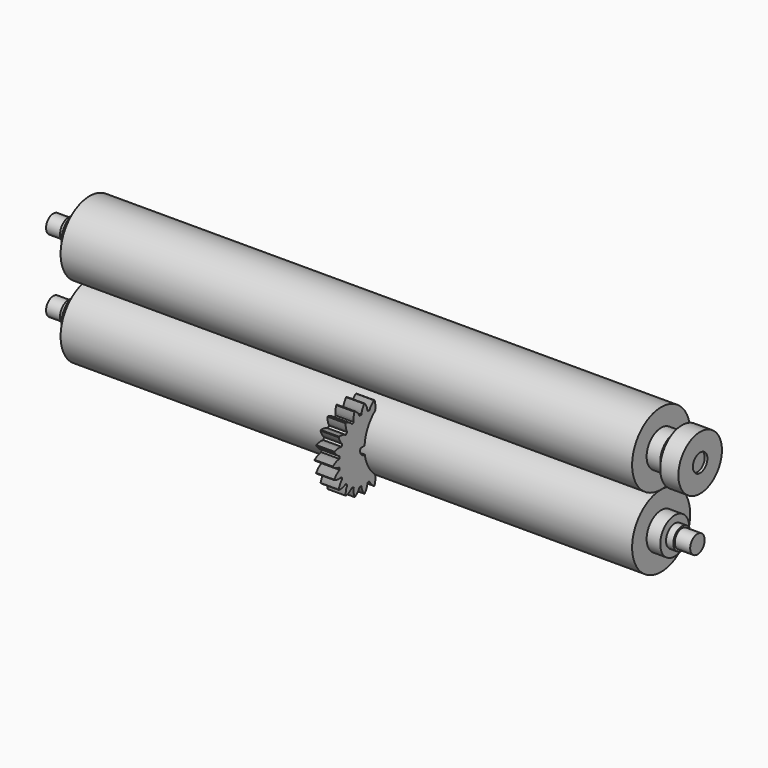
from build123d import *

# Parameters (mm, degrees)
F0_R      = 20
F0_R_2    = 10
F1_DEPTH  = 157.5
F0_R_3    = 6
F2_DEPTH  = 165
F0_R_4    = 5
F3_DEPTH  = 169
F4_DEPTH  = 177.5
F6_R      = 15
F6_R_2    = 5
F7_DEPTH  = 10
F9_DEPTH  = 25
F11_ANGLE = 30
F17_DEPTH = 1
F18_SCALE = 10


with BuildPart() as f1:
    # F0 (on Right) → F1 (new body, symmetric)
    with BuildSketch(Plane.YZ):
        Circle(F0_R)
        Circle(F0_R_2, mode=Mode.SUBTRACT)
    extrude(amount=F1_DEPTH, both=True)

    # F0 (on Right) → F2 (join, symmetric)
    with BuildSketch(Plane.YZ):
        Circle(F0_R_2)
        Circle(F0_R_3, mode=Mode.SUBTRACT)
    extrude(amount=F2_DEPTH, both=True)

    # F0 (on Right) → F3 (join, symmetric)
    with BuildSketch(Plane.YZ):
        Circle(F0_R_3)
        Circle(F0_R_4, mode=Mode.SUBTRACT)
    extrude(amount=F3_DEPTH, both=True)

    # F0 (on Right) → F4 (join, symmetric)
    with BuildSketch(Plane.YZ):
        Circle(F0_R_4)
    extrude(amount=F4_DEPTH, both=True)


with BuildPart() as f5_1:
    # F5: copy of F1
    add(f1.part.moved(Location((0, 0, 40))))


with BuildPart() as f7:
    # F6 (on face) → F7 (new body)
    with BuildSketch(Plane.YZ.offset(169)):
        with Locations((0, 40)):
            Circle(F6_R)
        with Locations((0, 40)):
            Circle(F6_R_2, mode=Mode.SUBTRACT)
    extrude(amount=F7_DEPTH)


with BuildPart() as f9:
    # F8 (on Right) → F9 (new body)
    with BuildSketch(Plane.YZ):
        Polygon((-51.1750705433, 34.2435816373), (-38.6024512457, 37.0724221622), (-34.7659893548, 49.3750501284), (-43.5021467614, 58.8488375698), (-56.074766059, 56.0199970449), (-59.9112279499, 43.7173690787), align=None)
    extrude(amount=F9_DEPTH)


with BuildPart() as f10_1:
    # F10: copy of F9
    add(f9.part.moved(Location((-53.21293, 0, 0))))


with BuildPart() as f10_1_1:
    # F11: moved
    add(f10_1.part.rotate(Axis((-40.71293, -51.1750705433, 34.2435816373), (1, 0, 0)), F11_ANGLE))


with BuildPart() as f12:
    # F10_face (on face) → F12 section 0
    with BuildSketch(Plane(origin=(-28.21293, -54.0039110682, 46.8162009349), x_dir=(0, 1, 0), z_dir=(1, 0, 0))):
        Polygon((2.8288405249, -12.5726192976), (12.3026279663, -3.836461891), (9.4737874414, 8.7361574066), (-2.8288405249, 12.5726192976), (-12.3026279663, 3.836461891), (-9.4737874414, -8.7361574066), align=None)
    # F9_face (on face) → F12 section 1
    with BuildSketch(Plane(origin=(0, -47.3386086524, 46.5462096035), x_dir=(0, 1, 0), z_dir=(-1, 0, 0))):
        Polygon((8.7361574066, 9.4737874414), (-3.836461891, 12.3026279663), (-12.5726192976, 2.8288405249), (-8.7361574066, -9.4737874414), (3.836461891, -12.3026279663), (12.5726192976, -2.8288405249), align=None)
    loft()


with BuildPart() as f17:
    # F16 (on Right) → F17 (new body)
    with BuildSketch(Plane.YZ):
        Polygon((-0.257, 0.20904), (-0.26483, 0.20927), (-0.28509, 0.33717), (-0.27772, 0.33981), (-0.27038, 0.34267), (-0.26309, 0.34571), (-0.25583, 0.34893), (-0.24883, 0.35343), (-0.24211, 0.35926), (-0.22836, 0.36927), (-0.21428, 0.37765), (-0.19996, 0.38477), (-0.17107, 0.3978), (-0.1437, 0.41757), (-0.11679, 0.43886), (-0.09033, 0.46158), (-0.06435, 0.48565), (-0.03885, 0.51105), (-0.01387, 0.53771), (0.01058, 0.5656), (0.03447, 0.59468), (0.05779, 0.62494), (0.08051, 0.65633), (0.06895, 0.69191), (0.03212, 0.70395), (-0.00453, 0.71472), (-0.04096, 0.72421), (-0.07713, 0.7324), (-0.11301, 0.73929), (-0.14856, 0.74485), (-0.18374, 0.74905), (-0.21849, 0.75188), (-0.25278, 0.75328), (-0.28654, 0.7532), (-0.31757, 0.74675), (-0.33335, 0.74409), (-0.34966, 0.7426), (-0.36667, 0.74261), (-0.37554, 0.74338), (-0.38384, 0.74291), (-0.39161, 0.74124), (-0.3993, 0.73942), (-0.40691, 0.73742), (-0.41443, 0.73522), (-0.47322, 0.8506), (-0.46702, 0.85539), (-0.46093, 0.86038), (-0.45493, 0.86553), (-0.44902, 0.87083), (-0.44376, 0.87727), (-0.43917, 0.88489), (-0.42918, 0.89867), (-0.41838, 0.91098), (-0.40696, 0.92218), (-0.38351, 0.9435), (-0.36359, 0.97076), (-0.34457, 0.99933), (-0.32643, 1.0291), (-0.30916, 1.06003), (-0.29276, 1.09206), (-0.27724, 1.12514), (-0.26261, 1.15922), (-0.24887, 1.19426), (-0.23604, 1.23024), (-0.22413, 1.26712), (-0.24612, 1.29739), (-0.28488, 1.29746), (-0.32306, 1.29638), (-0.36064, 1.29414), (-0.39757, 1.29075), (-0.43382, 1.28621), (-0.46935, 1.28052), (-0.5041, 1.27365), (-0.53803, 1.26559), (-0.57107, 1.25633), (-0.60316, 1.24582), (-0.63067, 1.2301), (-0.64486, 1.2227), (-0.65991, 1.21624), (-0.67609, 1.21099), (-0.68476, 1.20898), (-0.69252, 1.20597), (-0.69938, 1.20199), (-0.70613, 1.19787), (-0.71275, 1.19362), (-0.71923, 1.18921), (-0.81079, 1.28077), (-0.80638, 1.28725), (-0.80213, 1.29387), (-0.79801, 1.30062), (-0.79403, 1.30748), (-0.79102, 1.31524), (-0.78901, 1.32391), (-0.78376, 1.34009), (-0.7773, 1.35514), (-0.7699, 1.36933), (-0.75418, 1.39684), (-0.74367, 1.42893), (-0.73441, 1.46197), (-0.72635, 1.4959), (-0.71948, 1.53065), (-0.71379, 1.56618), (-0.70925, 1.60243), (-0.70586, 1.63936), (-0.70362, 1.67694), (-0.70254, 1.71512), (-0.70261, 1.75388), (-0.73288, 1.77587), (-0.76976, 1.76396), (-0.80574, 1.75113), (-0.84078, 1.73739), (-0.87486, 1.72276), (-0.90794, 1.70724), (-0.93997, 1.69084), (-0.9709, 1.67357), (-1.00067, 1.65543), (-1.02924, 1.63641), (-1.0565, 1.61649), (-1.07782, 1.59304), (-1.08902, 1.58162), (-1.10133, 1.57082), (-1.11511, 1.56083), (-1.12273, 1.55624), (-1.12917, 1.55098), (-1.13447, 1.54507), (-1.13962, 1.53907), (-1.14461, 1.53298), (-1.1494, 1.52678), (-1.26478, 1.58557), (-1.26258, 1.59309), (-1.26058, 1.6007), (-1.25876, 1.60839), (-1.25709, 1.61616), (-1.25662, 1.62446), (-1.25739, 1.63333), (-1.2574, 1.65034), (-1.25591, 1.66665), (-1.25325, 1.68243), (-1.2468, 1.71346), (-1.24672, 1.74722), (-1.24812, 1.78151), (-1.25095, 1.81626), (-1.25515, 1.85144), (-1.26071, 1.88699), (-1.2676, 1.92287), (-1.27579, 1.95904), (-1.28528, 1.99547), (-1.29605, 2.03212), (-1.30809, 2.06895), (-1.34367, 2.08051), (-1.37506, 2.05779), (-1.40532, 2.03447), (-1.4344, 2.01058), (-1.46229, 1.98613), (-1.48895, 1.96115), (-1.51435, 1.93565), (-1.53842, 1.90967), (-1.56114, 1.88321), (-1.58243, 1.8563), (-1.6022, 1.82893), (-1.61523, 1.80004), (-1.62235, 1.78572), (-1.63073, 1.77164), (-1.64074, 1.75789), (-1.64657, 1.75117), (-1.65107, 1.74417), (-1.65429, 1.73691), (-1.65733, 1.72962), (-1.66019, 1.72228), (-1.66283, 1.71491), (-1.79073, 1.73517), (-1.79096, 1.743), (-1.79142, 1.75085), (-1.79206, 1.75873), (-1.79287, 1.76663), (-1.79499, 1.77467), (-1.79846, 1.78287), (-1.80373, 1.79904), (-1.80735, 1.81502), (-1.8097, 1.83084), (-1.81316, 1.86235), (-1.82351, 1.89448), (-1.83544, 1.92666), (-1.84886, 1.95884), (-1.86374, 1.99099), (-1.88001, 2.02308), (-1.89764, 2.05508), (-1.91661, 2.08695), (-1.93689, 2.11866), (-1.95846, 2.15019), (-1.98129, 2.1815), (-2.01871, 2.1815), (-2.04154, 2.15019), (-2.06311, 2.11866), (-2.08339, 2.08695), (-2.10236, 2.05508), (-2.11999, 2.02308), (-2.13626, 1.99099), (-2.15114, 1.95884), (-2.16456, 1.92666), (-2.17649, 1.89448), (-2.18684, 1.86235), (-2.1903, 1.83084), (-2.19265, 1.81502), (-2.19627, 1.79904), (-2.20154, 1.78287), (-2.20501, 1.77467), (-2.20713, 1.76663), (-2.20794, 1.75873), (-2.20858, 1.75085), (-2.20904, 1.743), (-2.20927, 1.73517), (-2.33717, 1.71491), (-2.33981, 1.72228), (-2.34267, 1.72962), (-2.34571, 1.73691), (-2.34893, 1.74417), (-2.35343, 1.75117), (-2.35926, 1.75789), (-2.36927, 1.77164), (-2.37765, 1.78572), (-2.38477, 1.80004), (-2.3978, 1.82893), (-2.41757, 1.8563), (-2.43886, 1.88321), (-2.46158, 1.90967), (-2.48565, 1.93565), (-2.51105, 1.96115), (-2.53771, 1.98613), (-2.5656, 2.01058), (-2.59468, 2.03447), (-2.62494, 2.05779), (-2.65633, 2.08051), (-2.69191, 2.06895), (-2.70395, 2.03212), (-2.71472, 1.99547), (-2.72421, 1.95904), (-2.7324, 1.92287), (-2.73929, 1.88699), (-2.74485, 1.85144), (-2.74905, 1.81626), (-2.75188, 1.78151), (-2.75328, 1.74722), (-2.7532, 1.71346), (-2.74675, 1.68243), (-2.74409, 1.66665), (-2.7426, 1.65034), (-2.74262, 1.63333), (-2.74338, 1.62446), (-2.74291, 1.61616), (-2.74124, 1.60839), (-2.73942, 1.6007), (-2.73742, 1.59309), (-2.73522, 1.58557), (-2.8506, 1.52678), (-2.85539, 1.53298), (-2.86038, 1.53907), (-2.86553, 1.54507), (-2.87083, 1.55098), (-2.87727, 1.55624), (-2.88489, 1.56083), (-2.89867, 1.57082), (-2.91098, 1.58162), (-2.92218, 1.59304), (-2.9435, 1.61649), (-2.97076, 1.63641), (-2.99933, 1.65543), (-3.0291, 1.67357), (-3.06004, 1.69084), (-3.09206, 1.70724), (-3.12514, 1.72276), (-3.15922, 1.73739), (-3.19426, 1.75113), (-3.23024, 1.76396), (-3.26712, 1.77587), (-3.29739, 1.75388), (-3.29746, 1.71512), (-3.29638, 1.67694), (-3.29414, 1.63936), (-3.29075, 1.60243), (-3.28621, 1.56618), (-3.28052, 1.53065), (-3.27365, 1.4959), (-3.2656, 1.46197), (-3.25633, 1.42893), (-3.24582, 1.39684), (-3.2301, 1.36933), (-3.2227, 1.35514), (-3.21624, 1.34009), (-3.21099, 1.32391), (-3.20898, 1.31524), (-3.20597, 1.30748), (-3.20199, 1.30062), (-3.19787, 1.29387), (-3.19362, 1.28725), (-3.18921, 1.28077), (-3.28077, 1.18921), (-3.28725, 1.19362), (-3.29387, 1.19787), (-3.30062, 1.20199), (-3.30748, 1.20597), (-3.31524, 1.20898), (-3.32391, 1.21099), (-3.34009, 1.21624), (-3.35514, 1.2227), (-3.36933, 1.2301), (-3.39684, 1.24582), (-3.42893, 1.25633), (-3.46197, 1.26559), (-3.4959, 1.27365), (-3.53065, 1.28052), (-3.56618, 1.28621), (-3.60243, 1.29075), (-3.63936, 1.29414), (-3.67694, 1.29638), (-3.71512, 1.29746), (-3.75388, 1.29739), (-3.77587, 1.26712), (-3.76396, 1.23024), (-3.75113, 1.19426), (-3.73739, 1.15922), (-3.72276, 1.12514), (-3.70724, 1.09206), (-3.69084, 1.06003), (-3.67357, 1.0291), (-3.65543, 0.99933), (-3.63641, 0.97076), (-3.61649, 0.9435), (-3.59304, 0.92218), (-3.58162, 0.91098), (-3.57082, 0.89867), (-3.56083, 0.88489), (-3.55624, 0.87727), (-3.55098, 0.87083), (-3.54507, 0.86553), (-3.53907, 0.86038), (-3.53298, 0.85539), (-3.52678, 0.8506), (-3.58557, 0.73522), (-3.59309, 0.73742), (-3.6007, 0.73942), (-3.60839, 0.74124), (-3.61616, 0.74291), (-3.62446, 0.74338), (-3.63333, 0.74261), (-3.65034, 0.7426), (-3.66665, 0.74409), (-3.68243, 0.74675), (-3.71346, 0.7532), (-3.74722, 0.75328), (-3.78151, 0.75188), (-3.81626, 0.74905), (-3.85144, 0.74485), (-3.88699, 0.73929), (-3.92287, 0.7324), (-3.95904, 0.72421), (-3.99547, 0.71472), (-4.03212, 0.70395), (-4.06895, 0.69191), (-4.08051, 0.65633), (-4.05779, 0.62494), (-4.03447, 0.59468), (-4.01058, 0.5656), (-3.98613, 0.53771), (-3.96115, 0.51105), (-3.93565, 0.48565), (-3.90967, 0.46158), (-3.88321, 0.43886), (-3.8563, 0.41757), (-3.82893, 0.3978), (-3.80004, 0.38477), (-3.78572, 0.37765), (-3.77164, 0.36927), (-3.75789, 0.35926), (-3.75117, 0.35343), (-3.74417, 0.34893), (-3.73691, 0.34571), (-3.72962, 0.34267), (-3.72228, 0.33981), (-3.71491, 0.33717), (-3.73517, 0.20927), (-3.743, 0.20904), (-3.75085, 0.20858), (-3.75873, 0.20794), (-3.76663, 0.20713), (-3.77467, 0.20501), (-3.78287, 0.20154), (-3.79904, 0.19627), (-3.81502, 0.19265), (-3.83084, 0.1903), (-3.86235, 0.18684), (-3.89448, 0.17649), (-3.92666, 0.16456), (-3.95884, 0.15114), (-3.99099, 0.13626), (-4.02308, 0.11999), (-4.05508, 0.10236), (-4.08695, 0.08339), (-4.11866, 0.06311), (-4.15019, 0.04154), (-4.1815, 0.01871), (-4.1815, -0.01871), (-4.15019, -0.04154), (-4.11866, -0.06311), (-4.08695, -0.08339), (-4.05508, -0.10236), (-4.02308, -0.11999), (-3.99099, -0.13626), (-3.95884, -0.15114), (-3.92666, -0.16456), (-3.89448, -0.17649), (-3.86235, -0.18684), (-3.83084, -0.1903), (-3.81502, -0.19265), (-3.79904, -0.19627), (-3.78287, -0.20154), (-3.77467, -0.20501), (-3.76663, -0.20713), (-3.75873, -0.20794), (-3.75085, -0.20858), (-3.743, -0.20904), (-3.73517, -0.20927), (-3.71491, -0.33717), (-3.72228, -0.33981), (-3.72962, -0.34267), (-3.73691, -0.34571), (-3.74417, -0.34893), (-3.75117, -0.35343), (-3.75789, -0.35926), (-3.77164, -0.36927), (-3.78572, -0.37765), (-3.80004, -0.38477), (-3.82893, -0.3978), (-3.8563, -0.41757), (-3.88321, -0.43886), (-3.90967, -0.46158), (-3.93565, -0.48565), (-3.96115, -0.51105), (-3.98613, -0.53771), (-4.01058, -0.5656), (-4.03447, -0.59468), (-4.05779, -0.62494), (-4.08051, -0.65633), (-4.06895, -0.69191), (-4.03212, -0.70395), (-3.99547, -0.71472), (-3.95904, -0.72421), (-3.92287, -0.7324), (-3.88699, -0.73929), (-3.85144, -0.74485), (-3.81626, -0.74905), (-3.78151, -0.75188), (-3.74722, -0.75328), (-3.71346, -0.7532), (-3.68243, -0.74675), (-3.66665, -0.74409), (-3.65034, -0.7426), (-3.63333, -0.74262), (-3.62446, -0.74338), (-3.61616, -0.74291), (-3.60839, -0.74124), (-3.6007, -0.73942), (-3.59309, -0.73742), (-3.58557, -0.73522), (-3.52678, -0.8506), (-3.53298, -0.85539), (-3.53907, -0.86038), (-3.54507, -0.86553), (-3.55098, -0.87083), (-3.55624, -0.87727), (-3.56083, -0.88489), (-3.57082, -0.89867), (-3.58162, -0.91098), (-3.59304, -0.92218), (-3.61649, -0.9435), (-3.63641, -0.97076), (-3.65543, -0.99933), (-3.67357, -1.0291), (-3.69084, -1.06004), (-3.70724, -1.09206), (-3.72276, -1.12514), (-3.73739, -1.15922), (-3.75113, -1.19426), (-3.76396, -1.23024), (-3.77587, -1.26712), (-3.75388, -1.29739), (-3.71512, -1.29746), (-3.67694, -1.29638), (-3.63936, -1.29414), (-3.60243, -1.29075), (-3.56618, -1.28621), (-3.53065, -1.28052), (-3.4959, -1.27365), (-3.46197, -1.2656), (-3.42893, -1.25633), (-3.39684, -1.24582), (-3.36933, -1.2301), (-3.35514, -1.2227), (-3.34009, -1.21624), (-3.32391, -1.21099), (-3.31524, -1.20898), (-3.30748, -1.20597), (-3.30062, -1.20199), (-3.29387, -1.19787), (-3.28725, -1.19362), (-3.28077, -1.18921), (-3.18921, -1.28077), (-3.19362, -1.28725), (-3.19787, -1.29387), (-3.20199, -1.30062), (-3.20597, -1.30748), (-3.20898, -1.31524), (-3.21099, -1.32391), (-3.21624, -1.34009), (-3.2227, -1.35514), (-3.2301, -1.36933), (-3.24582, -1.39684), (-3.25633, -1.42893), (-3.2656, -1.46197), (-3.27365, -1.4959), (-3.28052, -1.53065), (-3.28621, -1.56618), (-3.29075, -1.60243), (-3.29414, -1.63936), (-3.29638, -1.67694), (-3.29746, -1.71512), (-3.29739, -1.75388), (-3.26712, -1.77587), (-3.23024, -1.76396), (-3.19426, -1.75113), (-3.15922, -1.73739), (-3.12514, -1.72276), (-3.09206, -1.70724), (-3.06004, -1.69084), (-3.0291, -1.67357), (-2.99933, -1.65543), (-2.97076, -1.63641), (-2.9435, -1.61649), (-2.92218, -1.59304), (-2.91098, -1.58162), (-2.89867, -1.57082), (-2.88489, -1.56083), (-2.87727, -1.55624), (-2.87083, -1.55098), (-2.86553, -1.54507), (-2.86038, -1.53907), (-2.85539, -1.53298), (-2.8506, -1.52678), (-2.73522, -1.58557), (-2.73742, -1.59309), (-2.73942, -1.6007), (-2.74124, -1.60839), (-2.74291, -1.61616), (-2.74338, -1.62446), (-2.74262, -1.63333), (-2.7426, -1.65034), (-2.74409, -1.66665), (-2.74675, -1.68243), (-2.7532, -1.71346), (-2.75328, -1.74722), (-2.75188, -1.78151), (-2.74905, -1.81626), (-2.74485, -1.85144), (-2.73929, -1.88699), (-2.7324, -1.92287), (-2.72421, -1.95904), (-2.71472, -1.99547), (-2.70395, -2.03212), (-2.69191, -2.06895), (-2.65633, -2.08051), (-2.62494, -2.05779), (-2.59468, -2.03447), (-2.5656, -2.01058), (-2.53771, -1.98613), (-2.51105, -1.96115), (-2.48565, -1.93565), (-2.46158, -1.90967), (-2.43886, -1.88321), (-2.41757, -1.8563), (-2.3978, -1.82893), (-2.38477, -1.80004), (-2.37765, -1.78572), (-2.36927, -1.77164), (-2.35926, -1.75789), (-2.35343, -1.75117), (-2.34893, -1.74417), (-2.34571, -1.73691), (-2.34267, -1.72962), (-2.33981, -1.72228), (-2.33717, -1.71491), (-2.20927, -1.73517), (-2.20904, -1.743), (-2.20858, -1.75085), (-2.20794, -1.75873), (-2.20713, -1.76663), (-2.20501, -1.77467), (-2.20154, -1.78287), (-2.19627, -1.79904), (-2.19265, -1.81502), (-2.1903, -1.83084), (-2.18684, -1.86235), (-2.17649, -1.89448), (-2.16456, -1.92666), (-2.15114, -1.95884), (-2.13626, -1.99099), (-2.11999, -2.02308), (-2.10236, -2.05508), (-2.08339, -2.08695), (-2.06311, -2.11866), (-2.04154, -2.15019), (-2.01871, -2.1815), (-1.98129, -2.1815), (-1.95846, -2.15019), (-1.93689, -2.11866), (-1.91661, -2.08695), (-1.89764, -2.05508), (-1.88001, -2.02308), (-1.86374, -1.99099), (-1.84886, -1.95884), (-1.83544, -1.92666), (-1.82351, -1.89448), (-1.81316, -1.86235), (-1.8097, -1.83084), (-1.80735, -1.81502), (-1.80373, -1.79904), (-1.79846, -1.78287), (-1.79499, -1.77467), (-1.79287, -1.76663), (-1.79206, -1.75873), (-1.79142, -1.75085), (-1.79096, -1.743), (-1.79073, -1.73517), (-1.66283, -1.71491), (-1.66019, -1.72228), (-1.65733, -1.72962), (-1.65429, -1.73691), (-1.65107, -1.74417), (-1.64657, -1.75117), (-1.64074, -1.75789), (-1.63073, -1.77164), (-1.62235, -1.78572), (-1.61523, -1.80004), (-1.6022, -1.82893), (-1.58243, -1.8563), (-1.56114, -1.88321), (-1.53842, -1.90967), (-1.51435, -1.93565), (-1.48895, -1.96115), (-1.46229, -1.98613), (-1.4344, -2.01058), (-1.40532, -2.03447), (-1.37506, -2.05779), (-1.34367, -2.08051), (-1.30809, -2.06895), (-1.29605, -2.03212), (-1.28528, -1.99547), (-1.27579, -1.95904), (-1.2676, -1.92287), (-1.26071, -1.88699), (-1.25515, -1.85144), (-1.25095, -1.81626), (-1.24812, -1.78151), (-1.24672, -1.74722), (-1.2468, -1.71346), (-1.25325, -1.68243), (-1.25591, -1.66665), (-1.2574, -1.65034), (-1.25739, -1.63333), (-1.25662, -1.62446), (-1.25709, -1.61616), (-1.25876, -1.60839), (-1.26058, -1.6007), (-1.26258, -1.59309), (-1.26478, -1.58557), (-1.1494, -1.52678), (-1.14461, -1.53298), (-1.13962, -1.53907), (-1.13447, -1.54507), (-1.12917, -1.55098), (-1.12273, -1.55624), (-1.11511, -1.56083), (-1.10133, -1.57082), (-1.08902, -1.58162), (-1.07782, -1.59304), (-1.0565, -1.61649), (-1.02924, -1.63641), (-1.00067, -1.65543), (-0.9709, -1.67357), (-0.93997, -1.69084), (-0.90794, -1.70724), (-0.87486, -1.72276), (-0.84078, -1.73739), (-0.80574, -1.75113), (-0.76976, -1.76396), (-0.73288, -1.77587), (-0.70261, -1.75388), (-0.70254, -1.71512), (-0.70362, -1.67694), (-0.70586, -1.63936), (-0.70925, -1.60243), (-0.71379, -1.56618), (-0.71948, -1.53065), (-0.72635, -1.4959), (-0.73441, -1.46197), (-0.74367, -1.42893), (-0.75418, -1.39684), (-0.7699, -1.36933), (-0.7773, -1.35514), (-0.78376, -1.34009), (-0.78901, -1.32391), (-0.79102, -1.31524), (-0.79403, -1.30748), (-0.79801, -1.30062), (-0.80213, -1.29387), (-0.80638, -1.28725), (-0.81079, -1.28077), (-0.71923, -1.18921), (-0.71275, -1.19362), (-0.70613, -1.19787), (-0.69938, -1.20199), (-0.69252, -1.20597), (-0.68476, -1.20898), (-0.67609, -1.21099), (-0.65991, -1.21624), (-0.64486, -1.2227), (-0.63067, -1.2301), (-0.60316, -1.24582), (-0.57107, -1.25633), (-0.53803, -1.2656), (-0.5041, -1.27365), (-0.46935, -1.28052), (-0.43382, -1.28621), (-0.39757, -1.29075), (-0.36064, -1.29414), (-0.32306, -1.29638), (-0.28488, -1.29746), (-0.24612, -1.29739), (-0.22413, -1.26712), (-0.23604, -1.23024), (-0.24887, -1.19426), (-0.26261, -1.15922), (-0.27724, -1.12514), (-0.29276, -1.09206), (-0.30916, -1.06004), (-0.32643, -1.0291), (-0.34457, -0.99933), (-0.36359, -0.97076), (-0.38351, -0.9435), (-0.40696, -0.92218), (-0.41838, -0.91098), (-0.42918, -0.89867), (-0.43917, -0.88489), (-0.44376, -0.87727), (-0.44902, -0.87083), (-0.45493, -0.86553), (-0.46093, -0.86038), (-0.46702, -0.85539), (-0.47322, -0.8506), (-0.41443, -0.73522), (-0.40691, -0.73742), (-0.3993, -0.73942), (-0.39161, -0.74124), (-0.38384, -0.74291), (-0.37554, -0.74338), (-0.36667, -0.74262), (-0.34966, -0.7426), (-0.33335, -0.74409), (-0.31757, -0.74675), (-0.28654, -0.7532), (-0.25278, -0.75328), (-0.21849, -0.75188), (-0.18374, -0.74905), (-0.14856, -0.74485), (-0.11301, -0.73929), (-0.07713, -0.7324), (-0.04096, -0.72421), (-0.00453, -0.71472), (0.03212, -0.70395), (0.06895, -0.69191), (0.08051, -0.65633), (0.05779, -0.62494), (0.03447, -0.59468), (0.01058, -0.5656), (-0.01387, -0.53771), (-0.03885, -0.51105), (-0.06435, -0.48565), (-0.09033, -0.46158), (-0.11679, -0.43886), (-0.1437, -0.41757), (-0.17107, -0.3978), (-0.19996, -0.38477), (-0.21428, -0.37765), (-0.22836, -0.36927), (-0.24211, -0.35926), (-0.24883, -0.35343), (-0.25583, -0.34893), (-0.26309, -0.34571), (-0.27038, -0.34267), (-0.27772, -0.33981), (-0.28509, -0.33717), (-0.26483, -0.20927), (-0.257, -0.20904), (-0.24915, -0.20858), (-0.24127, -0.20794), (-0.23337, -0.20713), (-0.22533, -0.20501), (-0.21713, -0.20154), (-0.20096, -0.19627), (-0.18498, -0.19265), (-0.16916, -0.1903), (-0.13765, -0.18684), (-0.10552, -0.17649), (-0.07334, -0.16456), (-0.04116, -0.15114), (-0.00901, -0.13626), (0.02308, -0.11999), (0.05508, -0.10236), (0.08695, -0.08339), (0.11866, -0.06311), (0.15019, -0.04154), (0.1815, -0.01871), (0.1815, 0.01871), (0.15019, 0.04154), (0.11866, 0.06311), (0.08695, 0.08339), (0.05508, 0.10236), (0.02308, 0.11999), (-0.00901, 0.13626), (-0.04116, 0.15114), (-0.07334, 0.16456), (-0.10552, 0.17649), (-0.13765, 0.18684), (-0.16916, 0.1903), (-0.18498, 0.19265), (-0.20096, 0.19627), (-0.21713, 0.20154), (-0.22533, 0.20501), (-0.23337, 0.20713), (-0.24127, 0.20794), (-0.24915, 0.20858), align=None)
        with BuildLine():
            ThreePointArc((-1.7346700168, 0.14), (-1.7087964673, 0.0721145097), (-1.7, 0))
            ThreePointArc((-1.7, 0), (-2.0721145097, -0.2912035327), (-2.2653299832, 0.14))
            ThreePointArc((-2.2653299832, 0.14), (-2, 0.3), (-1.7346700168, 0.14))
        make_face(mode=Mode.SUBTRACT)
        with BuildLine():
            Line((-2.2653299832, 0.14), (-1.7346700168, 0.14))
            ThreePointArc((-1.7346700168, 0.14), (-2, 0.3), (-2.2653299832, 0.14))
        make_face()
    extrude(amount=F17_DEPTH)


with BuildPart() as f17_1:
    # F18: moved
    add(f17.part.scale(F18_SCALE))


solid = Compound([f1.part, f5_1.part, f7.part, f17_1.part])
